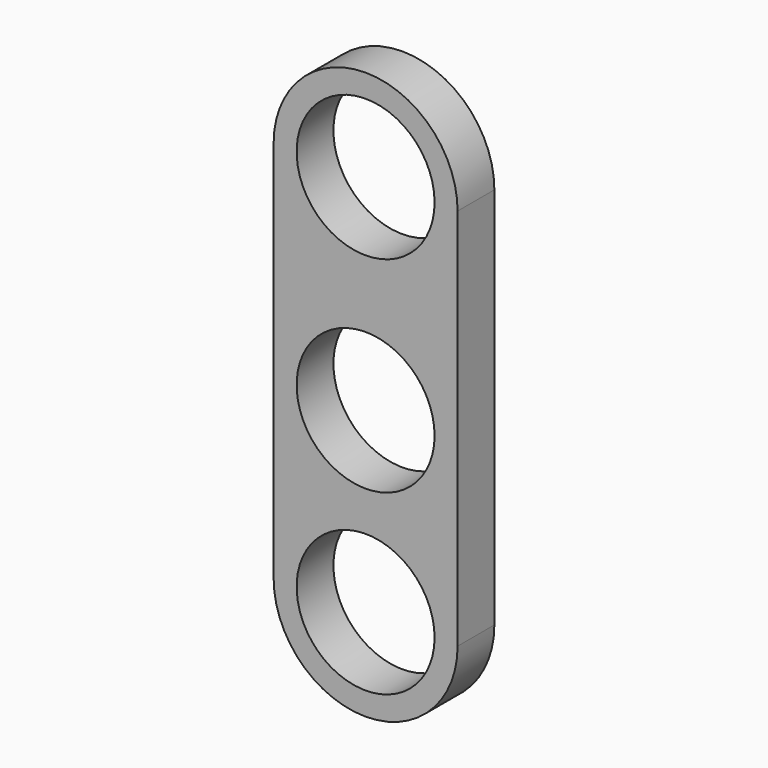
from build123d import *

# Parameters (mm, degrees)
F1_DEPTH = 6.35
F2_R     = 9.525
F3_DEPTH = 25.4


with BuildPart() as f1:
    # F0 (on Front) → F1 (new body)
    with BuildSketch(Plane.XZ):
        with BuildLine():
            ThreePointArc((-38.521796, 52.898269), (-51.223841, 65.600313), (-63.925885, 52.898269))
            Line((-63.925885, 52.898269), (-63.925885, 0))
            ThreePointArc((-63.925885, 0), (-51.223841, -12.702044), (-38.521796, 0))
            Line((-38.521796, 0), (-38.521796, 52.898269))
        make_face()
    extrude(amount=F1_DEPTH)

    # F2 (on face) → F3 (cut)
    with BuildSketch(Plane.XZ.offset(6.35)):
        with Locations((-51.223841, 24.542077)):
            Circle(F2_R)
        with Locations((-51.223841, 0)):
            Circle(F2_R)
        with Locations((-51.223841, 52.898269)):
            Circle(F2_R)
    extrude(amount=-F3_DEPTH, mode=Mode.SUBTRACT)


solid = f1.part
